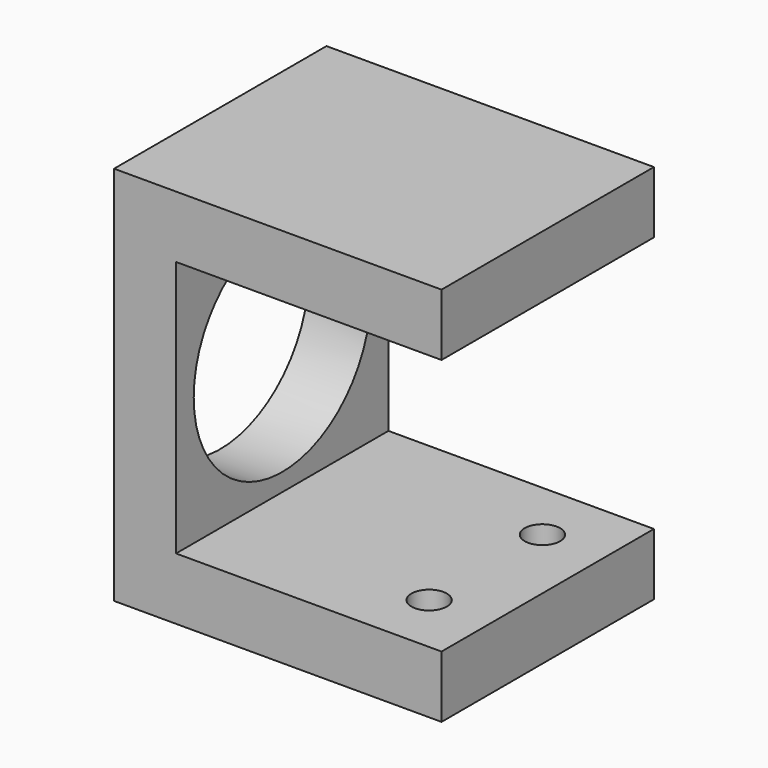
from build123d import *

# Parameters (mm, degrees)
F1_DEPTH = 30
F3_R     = 2
F4_DEPTH = 7
F5_R     = 12.5
F6_DEPTH = 7


with BuildPart() as f1:
    # F0 (on Front) → F1 (new body)
    with BuildSketch(Plane.XZ):
        Polygon((15, -21.5), (15, -14.5), (-15, -14.5), (-15, 14.5), (15, 14.5), (15, 21.5), (-22, 21.5), (-22, -21.5), align=None)
    extrude(amount=F1_DEPTH)

    # F3 (on face) → F4 (cut, through all)
    with BuildSketch(Plane(origin=(0, 0, -21.5), x_dir=(1, 0, 0), z_dir=(0, 0, -1))):
        with Locations((8, 23)):
            Circle(F3_R)
        with Locations((8, 7)):
            Circle(F3_R)
    extrude(amount=-F4_DEPTH, mode=Mode.SUBTRACT)

    # F5 (on face) → F6 (cut, through all)
    with BuildSketch(Plane(origin=(-22, 0, 0), x_dir=(0, -1, 0), z_dir=(-1, 0, 0))):
        with Locations((15, 0)):
            Circle(F5_R)
    extrude(amount=-F6_DEPTH, mode=Mode.SUBTRACT)


solid = f1.part
